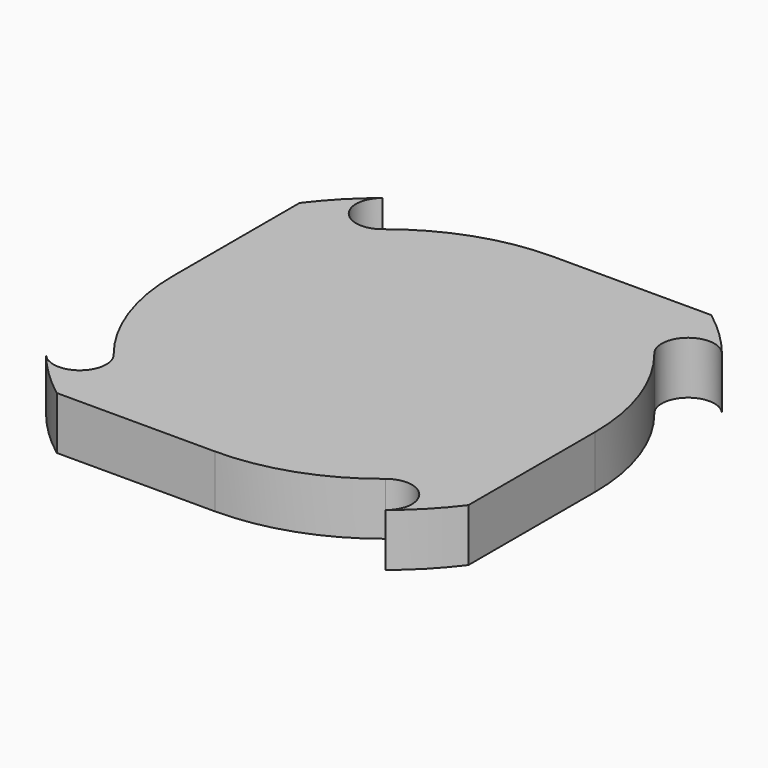
from build123d import *

# Parameters (mm, degrees)
F1_DEPTH = 6.35


with BuildPart() as f1:
    # F0 (on Top) → F1 (new body)
    with BuildSketch(Plane.XY):
        with BuildLine():
            Line((-25.4, 19.05), (-25.4, 3.44e-08))
            ThreePointArc((-25.4, 3.44e-08), (-22.9201707372, 10.9464959406), (-15.9648997609, 19.7555555636))
            ThreePointArc((-15.9648997609, 19.7555555636), (-20.4299568047, 20.2293876748), (-19.9561244112, 24.6944446887))
            ThreePointArc((-19.9561244112, 24.6944446887), (-22.8529963979, 22.0409404436), (-25.4, 19.05))
        make_face()
        with BuildLine():
            ThreePointArc((15.9648998628, -19.7555554812), (22.9201707729, -10.9464958659), (25.4, 0))
            ThreePointArc((25.4, 0), (23.9473496599, 8.4666666562), (19.7555555694, 15.9648997536))
            ThreePointArc((19.7555555694, 15.9648997536), (10.9464959513, 22.9201707321), (4.89e-08, 25.4))
            ThreePointArc((4.89e-08, 25.4), (-8.4666666376, 23.9473496665), (-15.9648997609, 19.7555555636))
            ThreePointArc((-15.9648997609, 19.7555555636), (-22.9201707372, 10.9464959406), (-25.4, 3.44e-08))
            ThreePointArc((-25.4, 3.44e-08), (-23.947349667, -8.4666666362), (-19.7555555746, -15.9648997473))
            ThreePointArc((-19.7555555746, -15.9648997473), (-10.9464959193, -22.9201707474), (3.01e-08, -25.4))
            ThreePointArc((3.01e-08, -25.4), (8.4666667367, -23.9473496314), (15.9648998628, -19.7555554812))
        make_face()
        with BuildLine():
            ThreePointArc((19.9561245838, -24.6944445493), (22.8529964749, -22.0409403637), (25.4, -19.05))
            Line((25.4, -19.05), (25.4, 0))
            ThreePointArc((25.4, 0), (22.9201707729, -10.9464958659), (15.9648998628, -19.7555554812))
            ThreePointArc((15.9648998628, -19.7555554812), (19.3288242854, -19.3599786821), (21.1355122421, -22.225))
            ThreePointArc((21.1355122421, -22.225), (20.8255335496, -23.5933120651), (19.9561245838, -24.6944445493))
        make_face()
        with BuildLine():
            ThreePointArc((4.89e-08, 25.4), (10.9464959513, 22.9201707321), (19.7555555694, 15.9648997536))
            ThreePointArc((19.7555555694, 15.9648997536), (20.2293875867, 20.4299567335), (24.6944445522, 19.9561245802))
            ThreePointArc((24.6944445522, 19.9561245802), (22.0409403654, 22.8529964733), (19.05, 25.4))
            Line((19.05, 25.4), (4.89e-08, 25.4))
        make_face()
        with BuildLine():
            ThreePointArc((-24.6944445978, -19.9561245237), (-22.0409403915, -22.8529964481), (-19.05, -25.4))
            Line((-19.05, -25.4), (3.01e-08, -25.4))
            ThreePointArc((3.01e-08, -25.4), (-10.9464959193, -22.9201707474), (-19.7555555746, -15.9648997473))
            ThreePointArc((-19.7555555746, -15.9648997473), (-19.231581298, -16.9021788946), (-19.05, -17.9605122421))
            ThreePointArc((-19.05, -17.9605122421), (-21.1666667817, -20.9539309898), (-24.6944445978, -19.9561245237))
        make_face()
    extrude(amount=F1_DEPTH)


solid = f1.part
